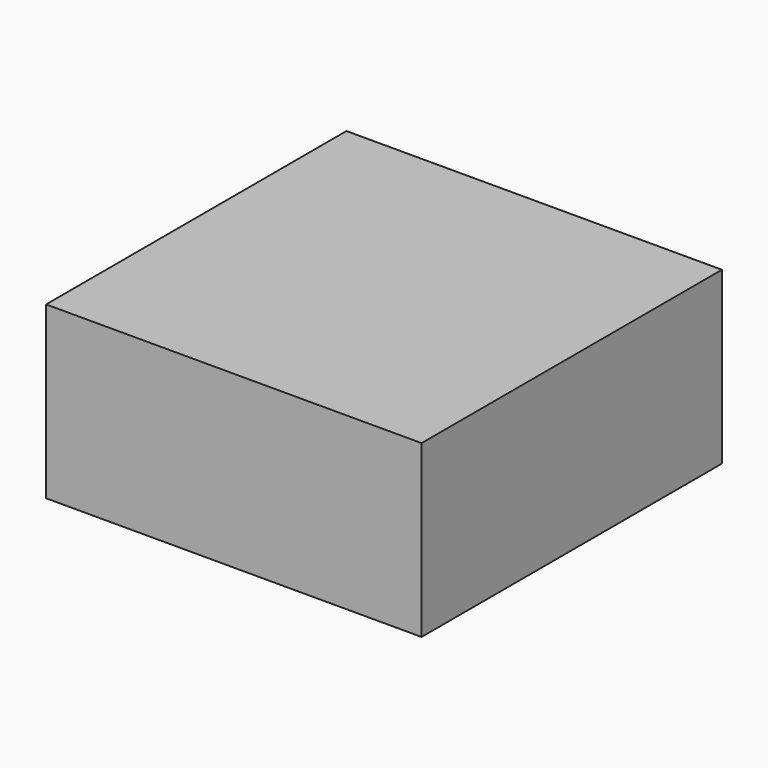
from build123d import *

# Parameters (mm, degrees)
SKETCH_W      = 110
SKETCH_H      = 110
EXTRUDE_DEPTH = 50


with BuildPart() as part:
    # Sketch → Extrude (new body)
    with BuildSketch(Plane.XY):
        Rectangle(SKETCH_W, SKETCH_H)
    extrude(amount=EXTRUDE_DEPTH)


solid = part.part
